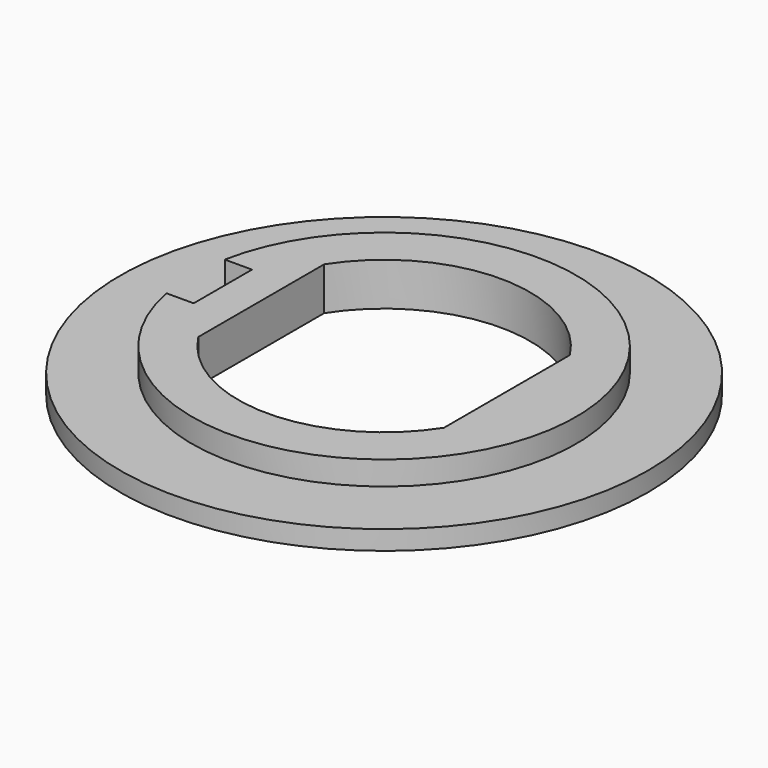
from build123d import *

# Parameters (mm, degrees)
F0_R     = 17.4625
F1_DEPTH = 1.27
F3_DEPTH = 1.5748
F5_DEPTH = 2.8458


with BuildPart() as f1:
    # F0 (on Top) → F1 (new body)
    with BuildSketch(Plane.XY):
        Circle(F0_R)
    extrude(amount=F1_DEPTH)

    # F2 (on face) → F3 (join)
    with BuildSketch(Plane.XY.offset(1.27)):
        with BuildLine():
            Line((-10.668, -2.413), (-12.468658, -2.413))
            ThreePointArc((-12.468658, -2.413), (12.7, 0), (-12.468658, 2.413))
            Line((-12.468658, 2.413), (-10.668, 2.413))
            Line((-10.668, 2.413), (-10.668, -2.413))
        make_face()
    extrude(amount=F3_DEPTH)

    # F4 (on face) → F5 (cut, through all)
    with BuildSketch(Plane.XY.offset(2.8448)):
        with BuildLine():
            Line((-8.128, 5.205451), (-8.128, -5.205451))
            ThreePointArc((-8.128, -5.205451), (0, -9.652), (8.128, -5.205451))
            Line((8.128, -5.205451), (8.128, 5.205451))
            ThreePointArc((8.128, 5.205451), (0, 9.652), (-8.128, 5.205451))
        make_face()
    extrude(amount=-F5_DEPTH, mode=Mode.SUBTRACT)


solid = f1.part
